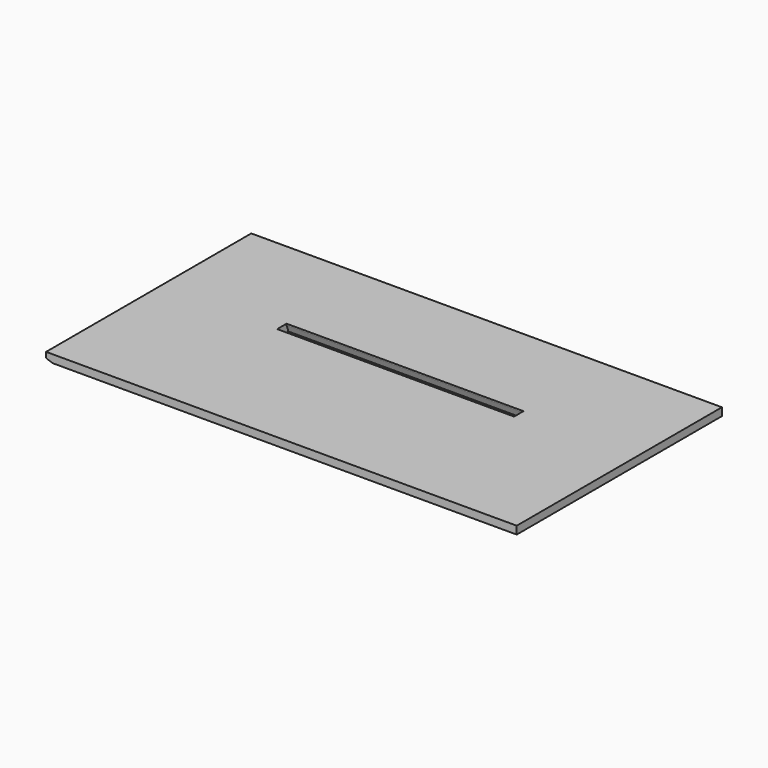
from build123d import *

# Parameters (mm, degrees)
F0_W       = 152.4
F0_H       = 83.058
F0_W_2     = 76.708
F0_H_2     = 3.048
F1_DEPTH   = 2.54
F2_SIZE2   = 2.0935777936
F2_SIZE    = 0.762
F3_SIZE2   = 2.0935777936
F3_SIZE    = 0.762
F3_2_SIZE2 = 2.0935777936
F3_2_SIZE  = 0.762


with BuildPart() as f1:
    # F0 (on Top) → F1 (new body)
    with BuildSketch(Plane.XY):
        with Locations((0, -6.985)):
            Rectangle(F0_W, F0_H)
        Rectangle(F0_W_2, F0_H_2, mode=Mode.SUBTRACT)
    extrude(amount=F1_DEPTH)

    # F2
    f2_edges = [f1.edges().sort_by_distance(p)[0] for p in [
        (0, 1.524, 0),
    ]]
    f2_side = f1.faces().sort_by_distance((0, -7.116448, 0))[0]
    chamfer(f2_edges, length=F2_SIZE, length2=F2_SIZE2, reference=f2_side)

    # F3
    f3_edges = [f1.edges().sort_by_distance(p)[0] for p in [
        (0, -1.524, 2.54),
    ]]
    f3_side = f1.faces().sort_by_distance((0, -7.116448, 2.54))[0]
    chamfer(f3_edges, length=F3_SIZE, length2=F3_SIZE2, reference=f3_side)

    # F3#2
    f3_2_edges = [f1.edges().sort_by_distance(p)[0] for p in [
        (-76.2, -6.985, 0),
    ]]
    f3_2_side = f1.faces().sort_by_distance((-76.2, -6.985, 1.27))[0]
    chamfer(f3_2_edges, length=F3_2_SIZE, length2=F3_2_SIZE2, reference=f3_2_side)


solid = f1.part
